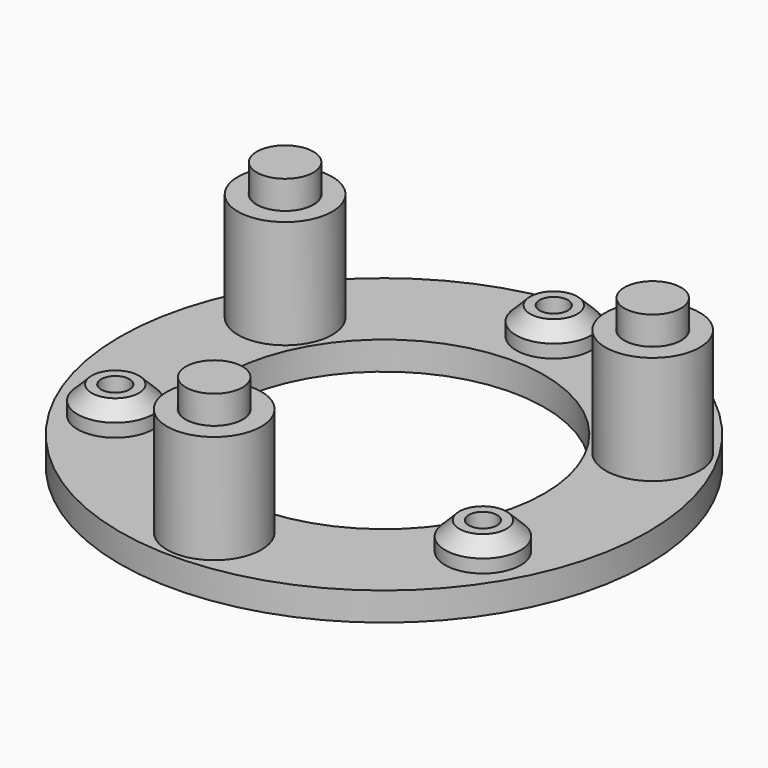
from build123d import *

# Parameters (mm, degrees)
SKETCH_R              = 28
SKETCH_R_2            = 17
PAD_DEPTH             = 3
SKETCH001_R           = 4
PAD001_DEPTH          = 2.9
SKETCH003_R           = 1.5
POCKET001_DEPTH       = 5.901
SKETCH005_R           = 5
PAD002_DEPTH          = 11.5
POLARPATTERN_COUNT    = 3
SKETCH006_R           = 3
PAD003_DEPTH          = 3
POLARPATTERN001_COUNT = 3
SKETCH008_R           = 3
POCKET002_DEPTH       = 12
POLARPATTERN003_COUNT = 3
CHAMFER_SIZE          = 1.5
CHAMFER001_SIZE       = 1.5
CHAMFER002_SIZE       = 1.5
SKETCH007_R           = 3.1
POCKET_DEPTH          = 175.525843
POLARPATTERN002_COUNT = 3
CHAMFER003_SIZE       = 1.5
CHAMFER004_SIZE       = 1.5
CHAMFER005_SIZE       = 1.5


with BuildPart() as polarpattern:
    # Sketch → Pad (new body)
    with BuildSketch(Plane.XY.offset(25)):
        Circle(SKETCH_R)
        Circle(SKETCH_R_2, mode=Mode.SUBTRACT)
    extrude(amount=PAD_DEPTH)

    # Sketch001 → Pad001 (new body)
    with BuildSketch(Plane.XY.offset(28)):
        with Locations((0, 22.5)):
            Circle(SKETCH001_R)
        with Locations((-19.485572, -11.25)):
            Circle(SKETCH001_R)
        with Locations((19.485572, -11.25)):
            Circle(SKETCH001_R)
    extrude(amount=PAD001_DEPTH)

    # Sketch003 → Pocket001 (cut, through all)
    with BuildSketch(Plane.XY.offset(30.9)):
        with Locations((0, 22.5)):
            Circle(SKETCH003_R)
        with Locations((-19.485572, -11.25)):
            Circle(SKETCH003_R)
        with Locations((19.485572, -11.25)):
            Circle(SKETCH003_R)
    extrude(amount=-POCKET001_DEPTH, mode=Mode.SUBTRACT)

    # Sketch005 → Pad002 (new body)
    with BuildSketch(Plane.XY.offset(28)):
        with Locations((0, -22.5)):
            Circle(SKETCH005_R)
    pad002 = extrude(amount=PAD002_DEPTH)

    # PolarPattern: Pad002 ×3 about axis
    polarpattern_axis = Axis((0, 0, 28), (0, 0, 1))
    for i in range(1, POLARPATTERN_COUNT):
        add(pad002.rotate(polarpattern_axis, i * 360 / POLARPATTERN_COUNT))


with BuildPart() as obj1:
    # Pad003 base: copy of PolarPattern
    add(polarpattern.part)

    # Sketch006 → Pad003 (new body)
    with BuildSketch(Plane.XY.offset(39.5)):
        with Locations((0, -22.5)):
            Circle(SKETCH006_R)
    pad003 = extrude(amount=PAD003_DEPTH)

    # PolarPattern001: Pad003 ×3 about axis
    polarpattern001_axis = Axis((0, 0, 39.5), (0, 0, 1))
    for i in range(1, POLARPATTERN001_COUNT):
        add(pad003.rotate(polarpattern001_axis, i * 360 / POLARPATTERN001_COUNT))

    # Sketch008 → Pocket002 (cut)
    with BuildSketch(Plane(origin=(0, 0, 25), x_dir=(1, 0, 0), z_dir=(0, 0, -1))):
        with Locations((0, 22.5)):
            Circle(SKETCH008_R)
    pocket002 = extrude(amount=-POCKET002_DEPTH, mode=Mode.SUBTRACT)

    # PolarPattern003: Pocket002 ×3 about axis
    polarpattern003_axis = Axis((0, 0, 25), (0, 0, -1))
    for i in range(1, POLARPATTERN003_COUNT):
        add(pocket002.rotate(polarpattern003_axis, i * 360 / POLARPATTERN003_COUNT), mode=Mode.SUBTRACT)

    # Chamfer
    chamfer_edges = [obj1.edges().sort_by_distance(p)[0] for p in [
        (15.485572, -11.25, 30.9),
    ]]
    chamfer(chamfer_edges, length=CHAMFER_SIZE)

    # Chamfer001
    chamfer001_edges = [obj1.edges().sort_by_distance(p)[0] for p in [
        (-23.485572, -11.25, 30.9),
    ]]
    chamfer(chamfer001_edges, length=CHAMFER001_SIZE)

    # Chamfer002
    chamfer002_edges = [obj1.edges().sort_by_distance(p)[0] for p in [
        (-4, 22.5, 30.9),
    ]]
    chamfer(chamfer002_edges, length=CHAMFER002_SIZE)


with BuildPart() as obj2:
    # Pocket base: copy of PolarPattern
    add(polarpattern.part)

    # Sketch007 → Pocket (cut, through all)
    with BuildSketch(Plane.XY.offset(39.5)):
        with Locations((0, -22.5)):
            Circle(SKETCH007_R)
    pocket = extrude(amount=-POCKET_DEPTH, mode=Mode.SUBTRACT)

    # PolarPattern002: Pocket ×3 about axis
    polarpattern002_axis = Axis((0, 0, 39.5), (0, 0, 1))
    for i in range(1, POLARPATTERN002_COUNT):
        add(pocket.rotate(polarpattern002_axis, i * 360 / POLARPATTERN002_COUNT), mode=Mode.SUBTRACT)

    # Chamfer003
    chamfer003_edges = [obj2.edges().sort_by_distance(p)[0] for p in [
        (-23.485572, -11.25, 30.9),
    ]]
    chamfer(chamfer003_edges, length=CHAMFER003_SIZE)

    # Chamfer004
    chamfer004_edges = [obj2.edges().sort_by_distance(p)[0] for p in [
        (-4, 22.5, 30.9),
    ]]
    chamfer(chamfer004_edges, length=CHAMFER004_SIZE)

    # Chamfer005
    chamfer005_edges = [obj2.edges().sort_by_distance(p)[0] for p in [
        (15.485572, -11.25, 30.9),
    ]]
    chamfer(chamfer005_edges, length=CHAMFER005_SIZE)


solid = Compound([obj1.part, obj2.part])
